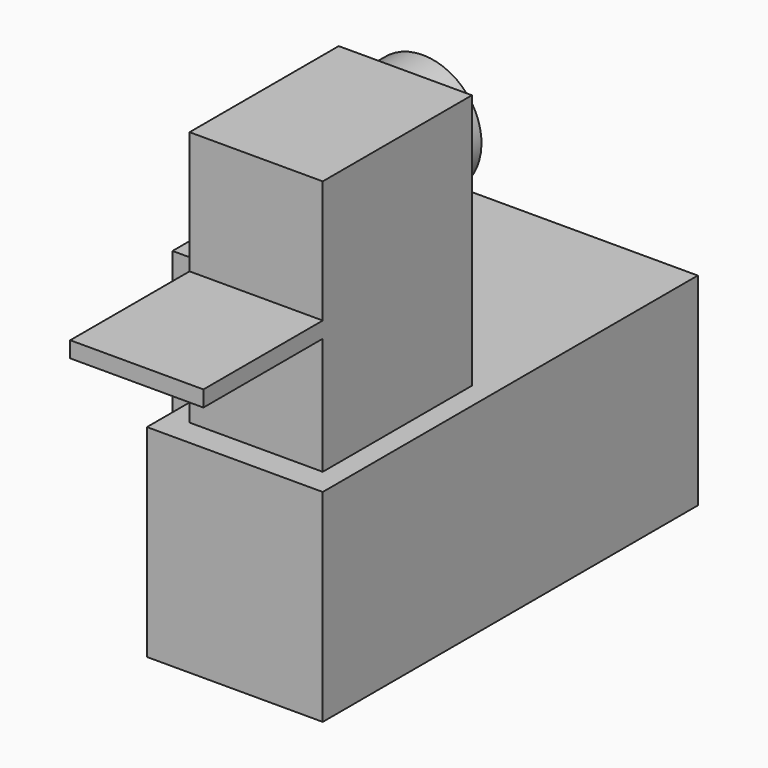
from build123d import *

# Parameters (mm, degrees)
F1_DEPTH = 965.2
F3_R     = 279.4
F4_DEPTH = 911.86
F5_W     = 635
F5_H     = 889
F6_DEPTH = 1219.2
F7_W     = 711.2
F7_H     = 76.2
F8_DEPTH = 635


with BuildPart() as f1:
    # F0 (on Top) → F1 (new body)
    with BuildSketch(Plane.XY):
        Polygon((-812.8, 0), (0, 0), (0, -1168.4), (838.2, -1168.4), (838.2, 1066.8), (-812.8, 1066.8), align=None)
    extrude(amount=F1_DEPTH)

    # F3 (on offset) → F4 (join)
    with BuildSketch(Plane(origin=(0, 1016, 0), x_dir=(-1, 0, 0), z_dir=(0, 1, 0))):
        with Locations((431.8, 1219.2)):
            Circle(F3_R)
    extrude(amount=-F4_DEPTH)

    # F5 (on face) → F6 (join)
    with BuildSketch(Plane.XY.offset(965.2)):
        with Locations((419.1, -596.9)):
            Rectangle(F5_W, F5_H)
    extrude(amount=F6_DEPTH)

    # F7 (on face) → F8 (join, through all)
    with BuildSketch(Plane(origin=(101.6, 0, 0), x_dir=(0, -1, 0), z_dir=(-1, 0, 0))):
        with Locations((1397, 1562.1)):
            Rectangle(F7_W, F7_H)
    extrude(amount=-F8_DEPTH)


solid = f1.part
